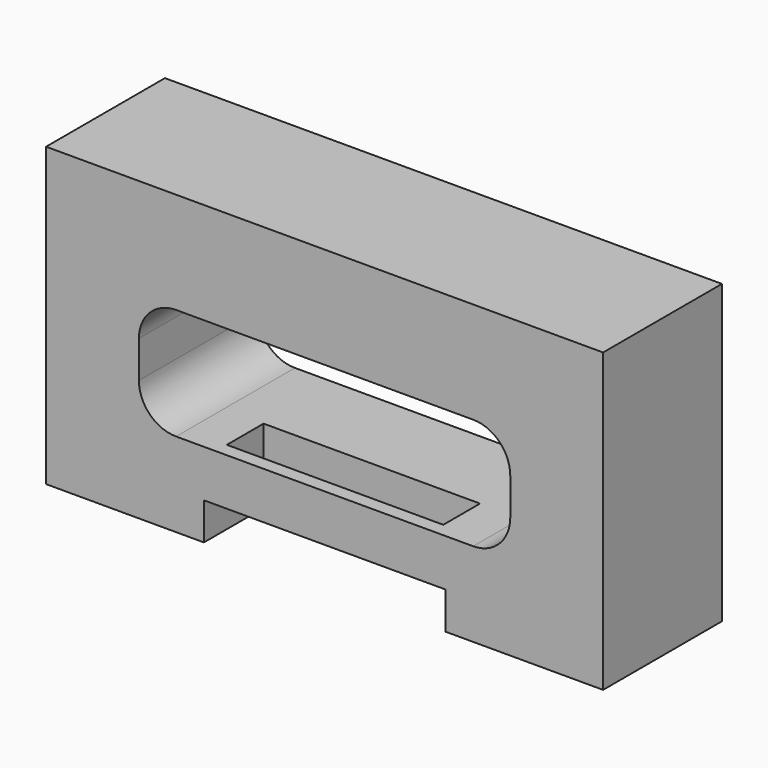
from build123d import *

# Parameters (mm, degrees)
F0_W     = 150
F0_H     = 40
F1_DEPTH = 80
F2_W     = 65
F2_H     = 20
F3_DEPTH = 10
F5_DEPTH = 264.4
F6_W     = 58.287583
F6_H     = 12.372349
F7_DEPTH = 25


with BuildPart() as f1:
    # F0 (on Top) → F1 (new body)
    with BuildSketch(Plane.XY):
        Rectangle(F0_W, F0_H)
    extrude(amount=F1_DEPTH)

    # F2 (on face) → F3 (cut)
    with BuildSketch(Plane(origin=(0, 0, 0), x_dir=(1, 0, 0), z_dir=(0, 0, -1))):
        with Locations((0, 10)):
            Rectangle(F2_W, F2_H)
    extrude(amount=-F3_DEPTH, mode=Mode.SUBTRACT)

    # F4 (on face) → F5 (cut)
    with BuildSketch(Plane.XZ.offset(20)):
        with BuildLine():
            Line((-40, 22.681816), (40, 22.681816))
            ThreePointArc((40, 22.681816), (47.071068, 25.610749), (50, 32.681816))
            Line((50, 32.681816), (50, 42.681816))
            ThreePointArc((50, 42.681816), (47.071068, 49.752884), (40, 52.681816))
            Line((40, 52.681816), (-40, 52.681816))
            ThreePointArc((-40, 52.681816), (-47.071068, 49.752884), (-50, 42.681816))
            Line((-50, 42.681816), (-50, 32.681816))
            ThreePointArc((-50, 32.681816), (-47.071068, 25.610749), (-40, 22.681816))
        make_face()
    extrude(amount=-F5_DEPTH, mode=Mode.SUBTRACT)

    # F6 (on face) → F7 (cut)
    with BuildSketch(Plane(origin=(0, 0, 10), x_dir=(1, 0, 0), z_dir=(0, 0, -1))):
        with Locations((-0.142549, 10.109945)):
            Rectangle(F6_W, F6_H)
    extrude(amount=-F7_DEPTH, mode=Mode.SUBTRACT)


solid = f1.part
